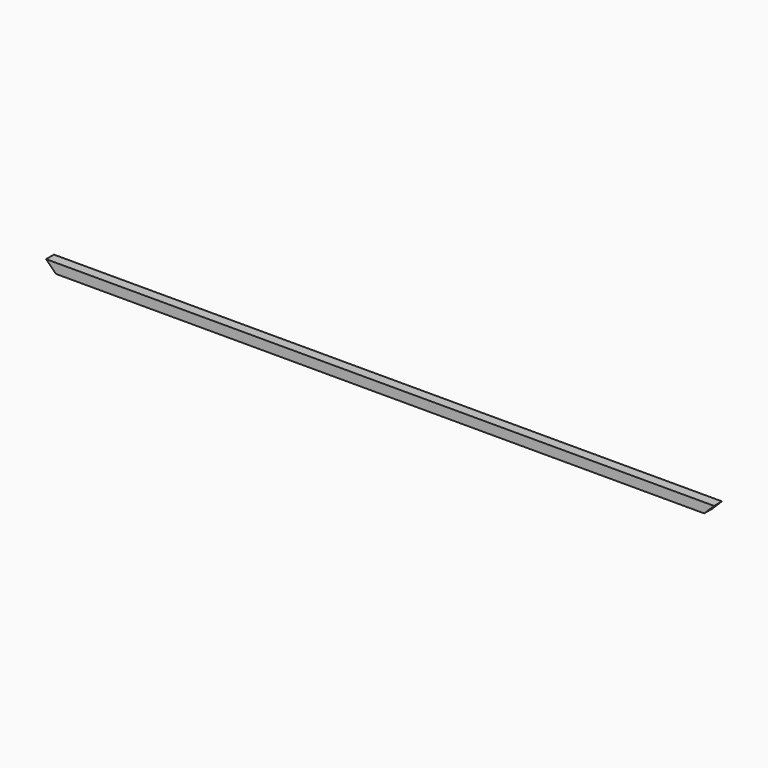
from build123d import *

# Parameters (mm, degrees)
F0_W          = 25
F0_H          = 25
F1_DEPTH      = 1700
F3_DEPTH      = 12.501
F3_DEPTH_BACK = 12.501
F5_DEPTH      = 12.501
F5_DEPTH_BACK = 12.501


with BuildPart() as f1:
    # F0 (on Right) → F1 (new body)
    with BuildSketch(Plane.YZ):
        Rectangle(F0_W, F0_H)
    extrude(amount=F1_DEPTH)

    # F2 (on Front) → F3 (cut, two sides)
    with BuildSketch(Plane.XZ) as f3_sk:
        Polygon((25, -12.5), (0, 12.5), (0, -12.5), align=None)
    extrude(amount=-F3_DEPTH, mode=Mode.SUBTRACT)
    extrude(f3_sk.sketch, amount=F3_DEPTH_BACK, mode=Mode.SUBTRACT)

    # F4 (on Front) → F5 (cut, two sides)
    with BuildSketch(Plane.XZ) as f5_sk:
        Polygon((1700, -12.5), (1700, 12.5), (1675, -12.5), align=None)
    extrude(amount=-F5_DEPTH, mode=Mode.SUBTRACT)
    extrude(f5_sk.sketch, amount=F5_DEPTH_BACK, mode=Mode.SUBTRACT)


solid = f1.part
